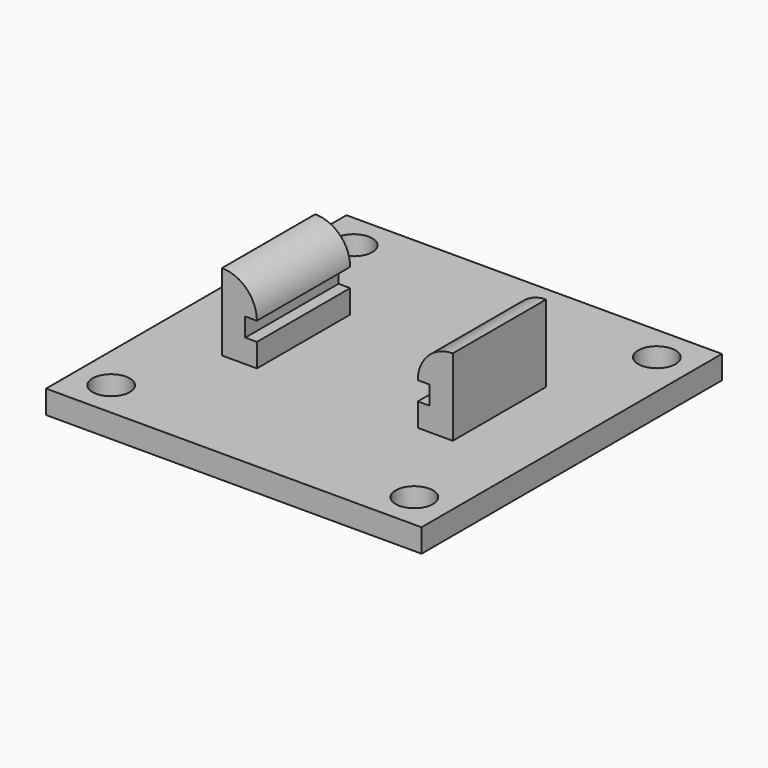
from build123d import *

# Parameters (mm, degrees)
EXTRUDE_DEPTH     = 10
EXTRUDE002_DEPTH  = 10
CYLINDER016_R     = 1.6
CYLINDER016_DEPTH = 10
CYLINDER015_R     = 1.6
CYLINDER015_DEPTH = 10
CYLINDER014_R     = 1.6
CYLINDER014_DEPTH = 10
CYLINDER013_R     = 1.6
CYLINDER013_DEPTH = 10
BOX_W             = 32.2
BOX_H             = 32.2
BOX_DEPTH         = 2


with BuildPart() as extrude_body:
    # Sketch → Extrude (new body)
    with BuildSketch(Plane.XZ):
        with BuildLine():
            Line((7.9, 3.6), (6.9, 3.6))
            ThreePointArc((9.9, 6.6), (7.77868, 5.72132), (6.9, 3.6))
            Line((9.9, 6.6), (9.9, 0))
            Line((9.9, 0), (6.9, 0))
            Line((6.9, 2), (6.9, 0))
            Line((7.9, 2), (6.9, 2))
            Line((7.9, 3.6), (7.9, 2))
        make_face()
    extrude(amount=EXTRUDE_DEPTH)


with BuildPart() as part_mirroring:
    # Part__Mirroring: instance of Extrude body
    add(extrude_body.part.mirror(Plane(origin=(0, 0, 0), x_dir=(0, -1, 0), z_dir=(1, 0, 0))))


with BuildPart() as h_bridge_mount:
    # Sketch002 → Extrude002 (new body)
    with BuildSketch(Plane.XZ):
        with BuildLine():
            Line((7.9, 3.6), (6.9, 3.6))
            ThreePointArc((9.9, 6.6), (7.77868, 5.72132), (6.9, 3.6))
            Line((9.9, 6.6), (9.9, 0))
            Line((9.9, 0), (6.9, 0))
            Line((6.9, 2), (6.9, 0))
            Line((7.9, 2), (6.9, 2))
            Line((7.9, 3.6), (7.9, 2))
        make_face()
    extrude(amount=EXTRUDE002_DEPTH)

    # Fusion: union Part__Mirroring
    add(part_mirroring.part)


with BuildPart() as h_bridge_mount_1:
    # Fusion placement: moved
    add(h_bridge_mount.part.moved(Location((13, 18, 2))))


with BuildPart() as mount_point003:
    # Cylinder016 → Cylinder016 (new body)
    with BuildSketch(Plane(origin=(26, 0, 0), x_dir=(1, 0, 0), z_dir=(0, 0, 1))):
        Circle(CYLINDER016_R)
    extrude(amount=CYLINDER016_DEPTH)


with BuildPart() as mount_point002:
    # Cylinder015 → Cylinder015 (new body)
    with BuildSketch(Plane(origin=(26, 26, 0), x_dir=(1, 0, 0), z_dir=(0, 0, 1))):
        Circle(CYLINDER015_R)
    extrude(amount=CYLINDER015_DEPTH)


with BuildPart() as mount_point001:
    # Cylinder014 → Cylinder014 (new body)
    with BuildSketch(Plane(origin=(0, 26, 0), x_dir=(1, 0, 0), z_dir=(0, 0, 1))):
        Circle(CYLINDER014_R)
    extrude(amount=CYLINDER014_DEPTH)


with BuildPart() as mount_point000:
    # Cylinder013 → Cylinder013 (new body)
    with BuildSketch(Plane.XY):
        Circle(CYLINDER013_R)
    extrude(amount=CYLINDER013_DEPTH)


with BuildPart() as fusion001:
    # Box → Box (new body)
    with BuildSketch(Plane(origin=(-3.1, -3.1, 0), x_dir=(1, 0, 0), z_dir=(0, 0, 1))):
        with Locations((16.1, 16.1)):
            Rectangle(BOX_W, BOX_H)
    extrude(amount=BOX_DEPTH)

    # Cut: cut Mount Point000
    add(mount_point000.part, mode=Mode.SUBTRACT)

    # Cut001: cut Mount Point001
    add(mount_point001.part, mode=Mode.SUBTRACT)

    # Cut002: cut Mount Point002
    add(mount_point002.part, mode=Mode.SUBTRACT)

    # Cut003: cut Mount Point003
    add(mount_point003.part, mode=Mode.SUBTRACT)

    # Fusion001: union H Bridge Mount
    add(h_bridge_mount_1.part)


solid = fusion001.part
